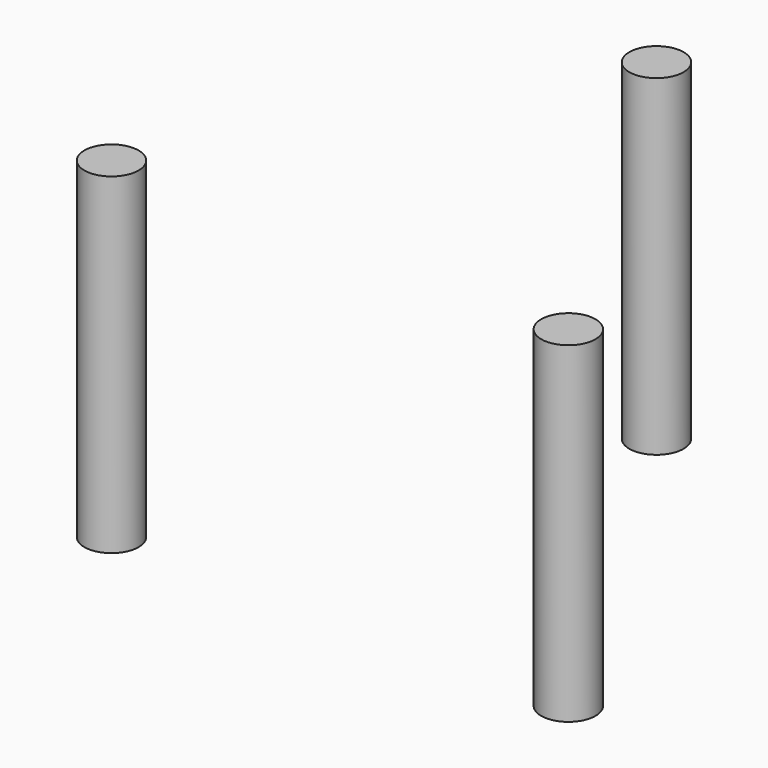
from build123d import *

# Parameters (mm, degrees)
CYLINDER018_R               = 0.9
CYLINDER018_DEPTH           = 11
CYLINDER020_R               = 0.9
CYLINDER020_DEPTH           = 11
CYLINDER020_PLACEMENT_ANGLE = -60
CYLINDER016_R               = 0.9
CYLINDER016_DEPTH           = 11
CYLINDER016_PLACEMENT_ANGLE = 60


with BuildPart() as cylinder018:
    # Cylinder018 → Cylinder018 (new body)
    with BuildSketch(Plane(origin=(0, 8.75, -2.5), x_dir=(-1, 0, 0), z_dir=(0, 0, 1))):
        Circle(CYLINDER018_R)
    extrude(amount=CYLINDER018_DEPTH)


with BuildPart() as cylinder020:
    # Cylinder020 → Cylinder020 (new body)
    with BuildSketch(Plane.XY):
        Circle(CYLINDER020_R)
    extrude(amount=CYLINDER020_DEPTH)


with BuildPart() as cylinder020_1:
    # Cylinder020 placement: moved
    add(cylinder020.part.moved(Location((-7.577722, -4.375, -2.5))).rotate(Axis((-7.577722, -4.375, -2.5), (0, 0, 1)), CYLINDER020_PLACEMENT_ANGLE))


with BuildPart() as fusion003:
    # Cylinder016 → Cylinder016 (new body)
    with BuildSketch(Plane.XY):
        Circle(CYLINDER016_R)
    extrude(amount=CYLINDER016_DEPTH)


with BuildPart() as fusion003_1:
    # Cylinder016 placement: moved
    add(fusion003.part.moved(Location((7.577722, -4.375, -2.5))).rotate(Axis((7.577722, -4.375, -2.5), (0, 0, 1)), CYLINDER016_PLACEMENT_ANGLE))

    # Fusion003: union Cylinder018, Cylinder020
    add(cylinder018.part)
    add(cylinder020_1.part)


with BuildPart() as fusion003_2:
    # Fusion003 placement: moved
    add(fusion003_1.part.moved(Location((0, 0, -0.5))))


solid = fusion003_2.part
